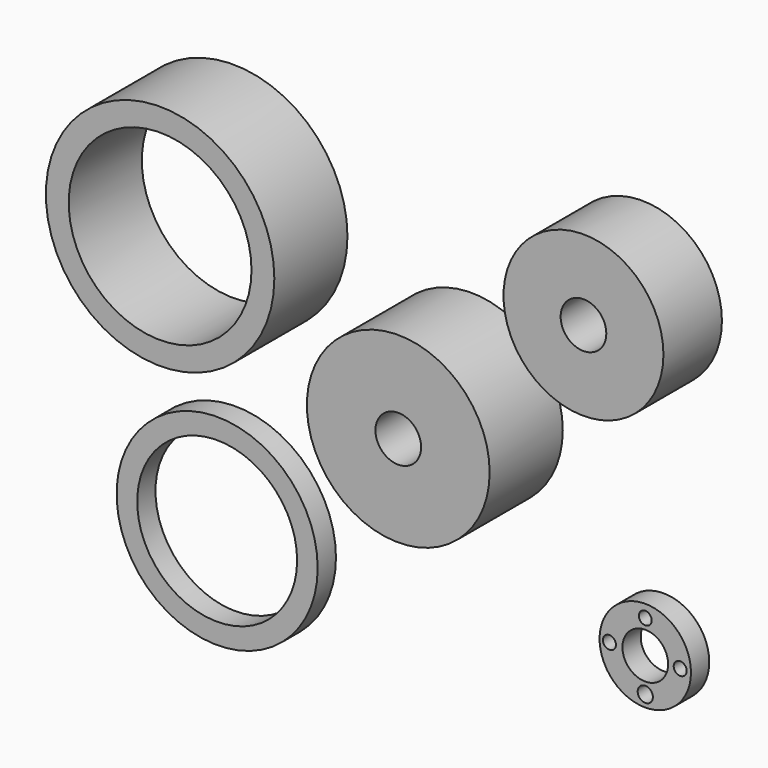
from build123d import *

# Parameters (mm, degrees)
F0_R     = 25.4
F0_R_2   = 6.35
F0_R_3   = 31.75
F1_DEPTH = 25.4
F2_R     = 22.225
F2_R_2   = 6.35
F3_DEPTH = 20.32
F4_R     = 27.94
F4_R_2   = 22.225
F5_DEPTH = 6.35
F6_R     = 12.7
F6_R_2   = 2.107917
F6_R_3   = 1.807523
F6_R_4   = 6.35
F6_R_5   = 1.807533
F6_R_6   = 1.789361
F7_DEPTH = 6.35


with BuildPart() as f1:
    # F0 (on Front) → F1 (new body)
    with BuildSketch(Plane.XZ):
        Circle(F0_R)
        Circle(F0_R_2, mode=Mode.SUBTRACT)
        with Locations((-66.193218, 27.99476)):
            Circle(F0_R_3)
        with Locations((-66.193218, 27.99476)):
            Circle(F0_R, mode=Mode.SUBTRACT)
    extrude(amount=F1_DEPTH)


with BuildPart() as f3:
    # F2 (on Front) → F3 (new body)
    with BuildSketch(Plane.XZ):
        with Locations((47.410432, 41.155305)):
            Circle(F2_R)
        with Locations((47.410432, 41.155305)):
            Circle(F2_R_2, mode=Mode.SUBTRACT)
    extrude(amount=F3_DEPTH)


with BuildPart() as f5:
    # F4 (on Front) → F5 (new body)
    with BuildSketch(Plane.XZ):
        with Locations((-65.574929, -51.635846)):
            Circle(F4_R)
        with Locations((-65.574929, -51.635846)):
            Circle(F4_R_2, mode=Mode.SUBTRACT)
    extrude(amount=F5_DEPTH)


with BuildPart() as f7:
    # F6 (on Front) → F7 (new body)
    with BuildSketch(Plane.XZ):
        with Locations((53.414259, -43.45591)):
            Circle(F6_R)
        with Locations((53.414259, -52.91396)):
            Circle(F6_R_2, mode=Mode.SUBTRACT)
        with Locations((43.444961, -43.45591)):
            Circle(F6_R_3, mode=Mode.SUBTRACT)
        with Locations((53.414259, -43.45591)):
            Circle(F6_R_4, mode=Mode.SUBTRACT)
        with Locations((63.127935, -43.45591)):
            Circle(F6_R_5, mode=Mode.SUBTRACT)
        with Locations((53.414259, -34.253482)):
            Circle(F6_R_6, mode=Mode.SUBTRACT)
    extrude(amount=F7_DEPTH)


solid = Compound([f1.part, f3.part, f5.part, f7.part])
